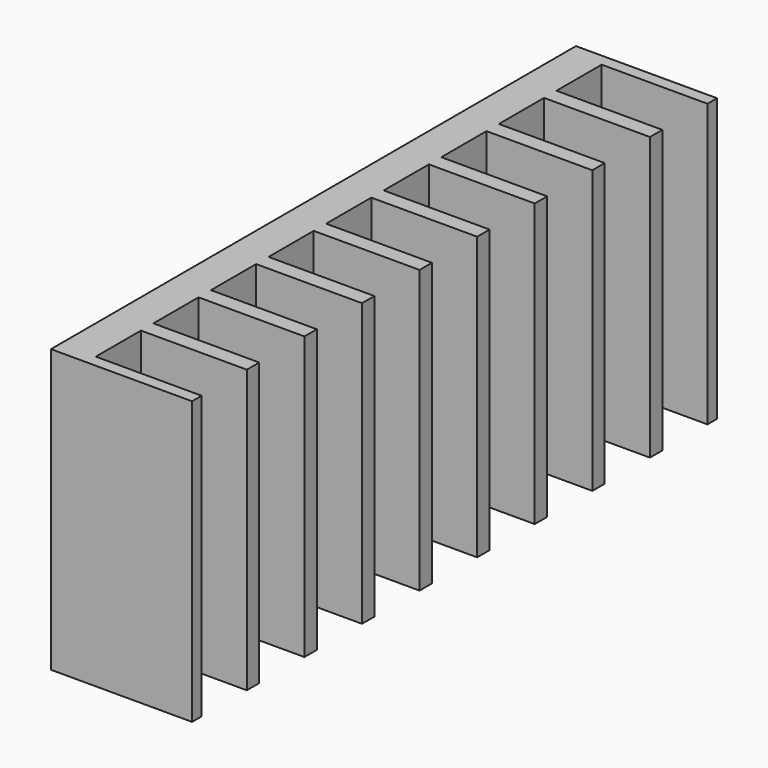
from build123d import *

# Parameters (mm, degrees)
SKETCH002_W     = 10
SKETCH002_H     = 46.5
PAD001_DEPTH    = 20
SKETCH003_W     = 10
SKETCH003_H     = 4
POCKET001_DEPTH = 20
SKETCH004_R     = 1.5
POCKET002_DEPTH = 5


with BuildPart() as part:
    # Sketch002 → Pad001 (new body)
    with BuildSketch(Plane.XY):
        Rectangle(SKETCH002_W, SKETCH002_H)
    extrude(amount=PAD001_DEPTH)

    # Sketch003 (on Face6 of Pad001) → Pocket001 (cut)
    with BuildSketch(Plane.XY.offset(20)):
        with Locations((2.5, 20.4)):
            Rectangle(SKETCH003_W, SKETCH003_H)
        with Locations((2.5, 10.2)):
            Rectangle(SKETCH003_W, SKETCH003_H)
        with Locations((2.5, 15.3)):
            Rectangle(SKETCH003_W, SKETCH003_H)
        with Locations((2.5, 5.1)):
            Rectangle(SKETCH003_W, SKETCH003_H)
        with Locations((2.5, 0)):
            Rectangle(SKETCH003_W, SKETCH003_H)
        with Locations((2.5, -20.4)):
            Rectangle(SKETCH003_W, SKETCH003_H)
        with Locations((2.5, -15.3)):
            Rectangle(SKETCH003_W, SKETCH003_H)
        with Locations((2.5, -10.2)):
            Rectangle(SKETCH003_W, SKETCH003_H)
        with Locations((2.5, -5.1)):
            Rectangle(SKETCH003_W, SKETCH003_H)
    extrude(amount=-POCKET001_DEPTH, mode=Mode.SUBTRACT)

    # Sketch004 (on Face26 of Pocket001) → Pocket002 (cut)
    with BuildSketch(Plane.YZ.offset(-2.5)):
        with Locations((0, 15)):
            Circle(SKETCH004_R)
    extrude(amount=-POCKET002_DEPTH, mode=Mode.SUBTRACT)


with BuildPart() as part_1:
    # Body001 placement: moved
    add(part.part.moved(Location((18.5, 0, 1.65))))


solid = part_1.part
